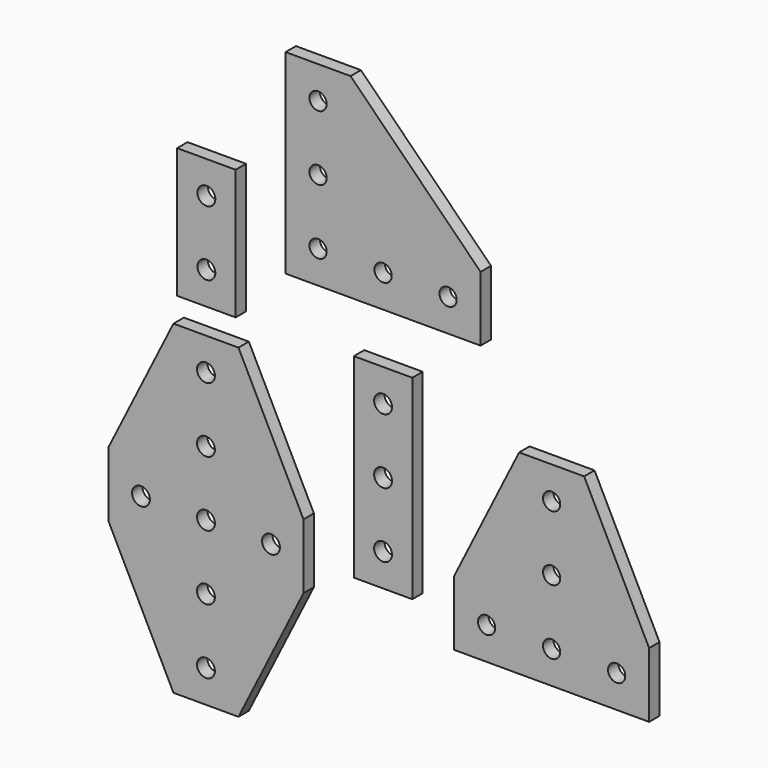
from build123d import *

# Parameters (mm, degrees)
F1_DEPTH  = 4
F2_D      = 5.3
F2_DEPTH  = 12.7
F2_TIP    = 1.5922806404
F4_DEPTH  = 4
F5_D      = 5.3
F5_DEPTH  = 12.7
F5_TIP    = 1.5922806404
F7_DEPTH  = 4
F8_D      = 5.5
F8_DEPTH  = 12.7
F8_TIP    = 1.6523667023
F9_W      = 18
F9_H      = 40
F10_DEPTH = 4
F11_D     = 5.5
F11_DEPTH = 12.7
F11_TIP   = 1.6523667023
F12_W     = 18
F12_H     = 60
F13_DEPTH = 4
F14_D     = 5.5
F14_DEPTH = 12.7
F14_TIP   = 1.6523667023


with BuildPart() as f1:
    # F0 (on Front) → F1 (new body)
    with BuildSketch(Plane.XZ):
        Polygon((-30, 105.5219832063), (-30, 45.5219832063), (30, 45.5219832063), (30, 65.5219832063), (-10, 105.5219832063), align=None)
    extrude(amount=F1_DEPTH)

    # F2
    with Locations(Plane(origin=(0, 0, 0), x_dir=(1, 0, 0), z_dir=(0, 1, 0))):
        with Locations((-20, -95.5219832063), (-20, -75.5219832063), (-20, -55.5219832063), (0, -55.5219832063), (20, -55.5219832063)):
            Hole(F2_D / 2, depth=F2_DEPTH)
            with Locations((0, 0, -(F2_DEPTH + F2_TIP / 2))):  # 118° drill point
                Cone(0, F2_D / 2, F2_TIP, mode=Mode.SUBTRACT)


with BuildPart() as f4:
    # F3 (on Front) → F4 (new body)
    with BuildSketch(Plane.XZ):
        Polygon((21.8637231737, -19.5256303996), (21.8637231737, -39.5256303996), (41.8637231737, -39.5256303996), (61.8637231737, -39.5256303996), (81.8637231737, -39.5256303996), (81.8637231737, -19.5256303996), (81.8442031741, -19.5256303996), (61.8637231737, 20.4743696004), (41.8637231737, 20.4743696004), align=None)
    extrude(amount=F4_DEPTH)

    # F5
    with Locations(Plane(origin=(0, 0, 0), x_dir=(1, 0, 0), z_dir=(0, 1, 0))):
        with Locations((51.8637231737, 29.5256303996), (31.8637231737, 29.5256303996), (71.8637231737, 29.5256303996), (51.8637231737, 9.5256303996), (51.8637231737, -10.4743696004)):
            Hole(F5_D / 2, depth=F5_DEPTH)
            with Locations((0, 0, -(F5_DEPTH + F5_TIP / 2))):  # 118° drill point
                Cone(0, F5_D / 2, F5_TIP, mode=Mode.SUBTRACT)


with BuildPart() as f7:
    # F6 (on Front) → F7 (new body)
    with BuildSketch(Plane.XZ):
        Polygon((-64.4896663725, -79.2333139479), (-44.4896663725, -79.2333139479), (-24.4896663725, -39.2333139479), (-24.4896663725, -19.2333139479), (-44.4896663725, 20.7666860521), (-64.4896663725, 20.7666860521), (-84.4896663725, -19.2333139479), (-84.4896663725, -39.2333139479), align=None)
    extrude(amount=F7_DEPTH)

    # F8
    with Locations(Plane(origin=(0, 0, 0), x_dir=(1, 0, 0), z_dir=(0, 1, 0))):
        with Locations((-54.4896663725, 69.2333139479), (-54.4896663725, 49.2333139479), (-74.4896663725, 29.2333139479), (-54.4896663725, 29.2333139479), (-34.4896663725, 29.2333139479), (-54.4896663725, 9.2333139479), (-54.4896663725, -10.7666860521)):
            Hole(F8_D / 2, depth=F8_DEPTH)
            with Locations((0, 0, -(F8_DEPTH + F8_TIP / 2))):  # 118° drill point
                Cone(0, F8_D / 2, F8_TIP, mode=Mode.SUBTRACT)


with BuildPart() as f10:
    # F9 (on Front) → F10 (new body)
    with BuildSketch(Plane.XZ):
        with Locations((-54.3606247902, 48.6583974957)):
            Rectangle(F9_W, F9_H)
    extrude(amount=F10_DEPTH)

    # F11
    with Locations(Plane(origin=(0, 0, 0), x_dir=(1, 0, 0), z_dir=(0, 1, 0))):
        with Locations((-54.3606247902, -58.6583974957), (-54.3606247902, -38.6583974957)):
            Hole(F11_D / 2, depth=F11_DEPTH)
            with Locations((0, 0, -(F11_DEPTH + F11_TIP / 2))):  # 118° drill point
                Cone(0, F11_D / 2, F11_TIP, mode=Mode.SUBTRACT)


with BuildPart() as f13:
    # F12 (on Front) → F13 (new body)
    with BuildSketch(Plane.XZ):
        Rectangle(F12_W, F12_H)
    extrude(amount=F13_DEPTH)

    # F14
    with Locations(Plane(origin=(0, 0, 0), x_dir=(1, 0, 0), z_dir=(0, 1, 0))):
        with Locations((0, -20), (0, 0), (0, 20)):
            Hole(F14_D / 2, depth=F14_DEPTH)
            with Locations((0, 0, -(F14_DEPTH + F14_TIP / 2))):  # 118° drill point
                Cone(0, F14_D / 2, F14_TIP, mode=Mode.SUBTRACT)


solid = Compound([f1.part, f4.part, f7.part, f10.part, f13.part])
